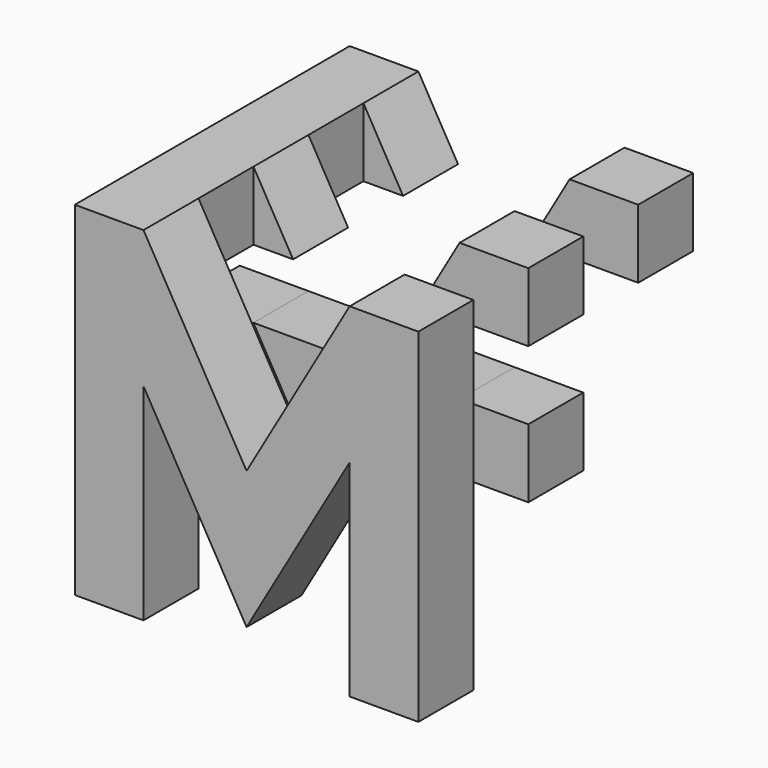
from build123d import *

# Parameters (mm, degrees)
F0_W     = 35
F0_H     = 35
F1_DEPTH = 35
F2_W     = 28
F2_H     = 7
F5_DEPTH = 35
F6_DEPTH = 35
F7_DEPTH = 35
F8_DEPTH = 35
F9_DEPTH = 35


with BuildPart() as f1:
    # F0 (on Top) → F1 (new body)
    with BuildSketch(Plane.XY):
        Rectangle(F0_W, F0_H)
    extrude(amount=F1_DEPTH)

    # F2 (on face) → F5 (cut)
    with BuildSketch(Plane.XY.offset(35)):
        with Locations((3.5, 7)):
            Rectangle(F2_W, F2_H)
    extrude(amount=-F5_DEPTH, mode=Mode.SUBTRACT)

    # F2 (on face) → F6 (cut)
    with BuildSketch(Plane.XY.offset(35)):
        with Locations((3.5, -7)):
            Rectangle(F2_W, F2_H)
    extrude(amount=-F6_DEPTH, mode=Mode.SUBTRACT)

    # F3 (on face) → F7 (cut)
    with BuildSketch(Plane.XZ.offset(17.5)):
        Polygon((10.5, 35), (-10.5, 35), (0, 16.8134665205), align=None)
    extrude(amount=-F7_DEPTH, mode=Mode.SUBTRACT)

    # F3 (on face) → F8 (cut)
    with BuildSketch(Plane.XZ.offset(17.5)):
        Polygon((-10.5, 21), (-10.5, 0), (10.5, 0), (10.5, 21), (0, 2.8134665205), align=None)
    extrude(amount=-F8_DEPTH, mode=Mode.SUBTRACT)

    # F4 (on face) → F9 (cut)
    with BuildSketch(Plane.YZ.offset(17.5)):
        Polygon((17.5, 28), (-10.5, 28), (-10.5, 21), (3.5, 21), (3.5, 14), (-10.5, 14), (-10.5, 0), (17.5, 0), align=None)
    extrude(amount=-F9_DEPTH, mode=Mode.SUBTRACT)


solid = f1.part
